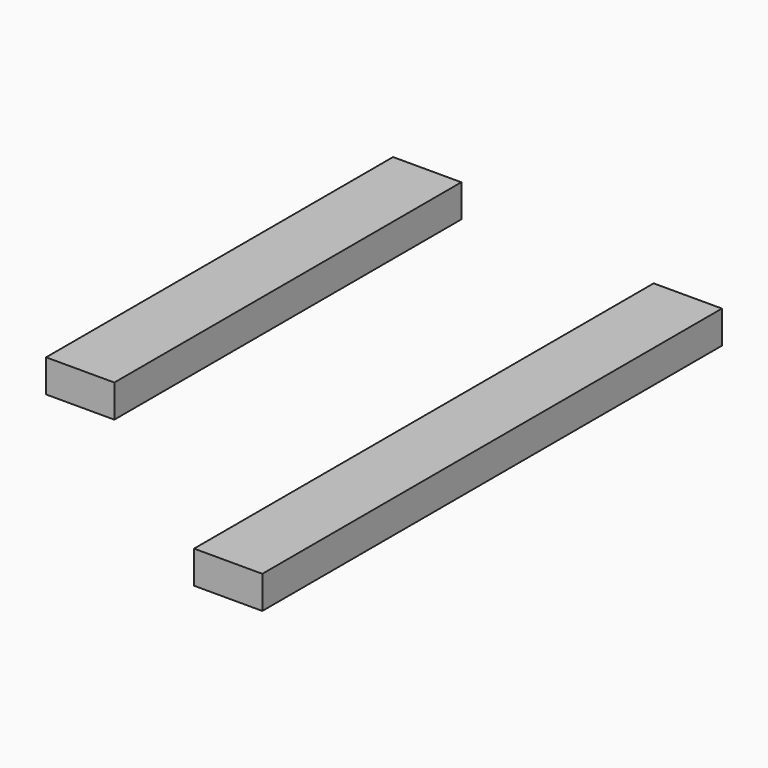
from build123d import *

# Parameters (mm, degrees)
F1_W     = 48
F1_H     = 23
F3_DEPTH = 404
F4_W     = 48
F4_H     = 23
F7_DEPTH = 305


with BuildPart() as f3:
    # F1 (on Front) → F3 (new body, through all)
    with BuildSketch(Plane.XZ):
        Rectangle(F1_W, F1_H)
    extrude(amount=F3_DEPTH)


with BuildPart() as f7:
    # F4 (on Front) → F7 (new body, through all)
    with BuildSketch(Plane.XZ):
        with Locations((-183.260966301, 18.5868354291)):
            Rectangle(F4_W, F4_H)
    extrude(amount=F7_DEPTH)


solid = Compound([f3.part, f7.part])
